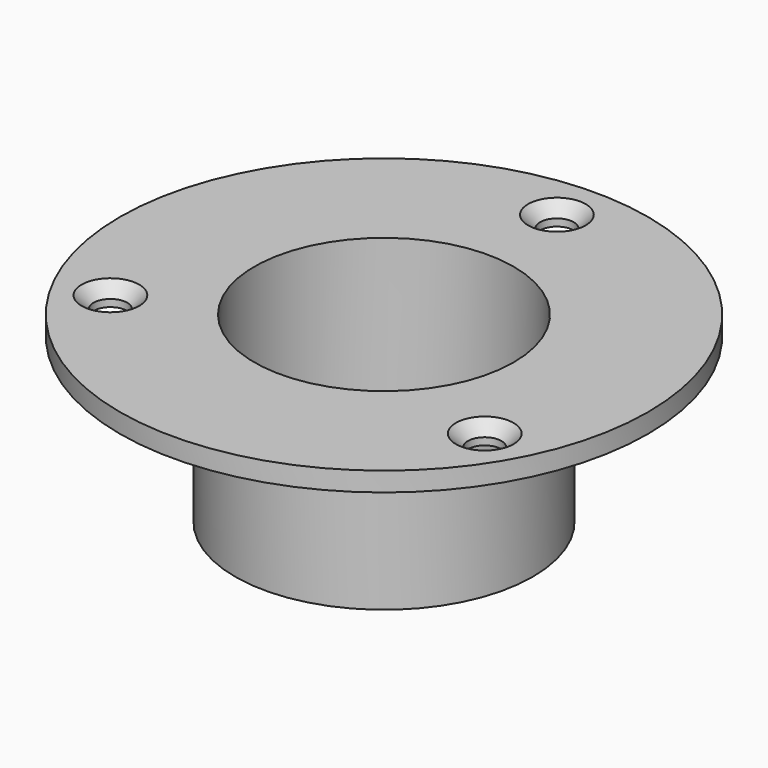
from build123d import *

# Parameters (mm, degrees)
F0_R           = 15.5
F0_R_2         = 13.5
F1_DEPTH       = 15
F2_R           = 27.5
F2_R_2         = 13.5
F3_DEPTH       = 2
F4_R           = 15.5
F4_R_2         = 7.75
F5_DEPTH       = 2
F7_D           = 3.5
F7_CSINK_D     = 6
F7_CSINK_ANGLE = 90


with BuildPart() as f1:
    # F0 (on Top) → F1 (new body)
    with BuildSketch(Plane.XY):
        Circle(F0_R)
        Circle(F0_R_2, mode=Mode.SUBTRACT)
    extrude(amount=-F1_DEPTH)

    # F2 (on Top) → F3 (join)
    with BuildSketch(Plane.XY):
        Circle(F2_R)
        Circle(F2_R_2, mode=Mode.SUBTRACT)
    extrude(amount=F3_DEPTH)

    # F4 (on face) → F5 (join)
    with BuildSketch(Plane(origin=(0, 0, -15), x_dir=(1, 0, 0), z_dir=(0, 0, -1))):
        Circle(F4_R)
        Circle(F4_R_2, mode=Mode.SUBTRACT)
    extrude(amount=F5_DEPTH)

    # F7 (through all)
    with Locations(Plane.XY.offset(2)):
        with Locations((0, 22.5), (-19.485572, -11.25), (19.485572, -11.25)):
            CounterSinkHole(F7_D / 2, F7_CSINK_D / 2, counter_sink_angle=F7_CSINK_ANGLE)


solid = f1.part
